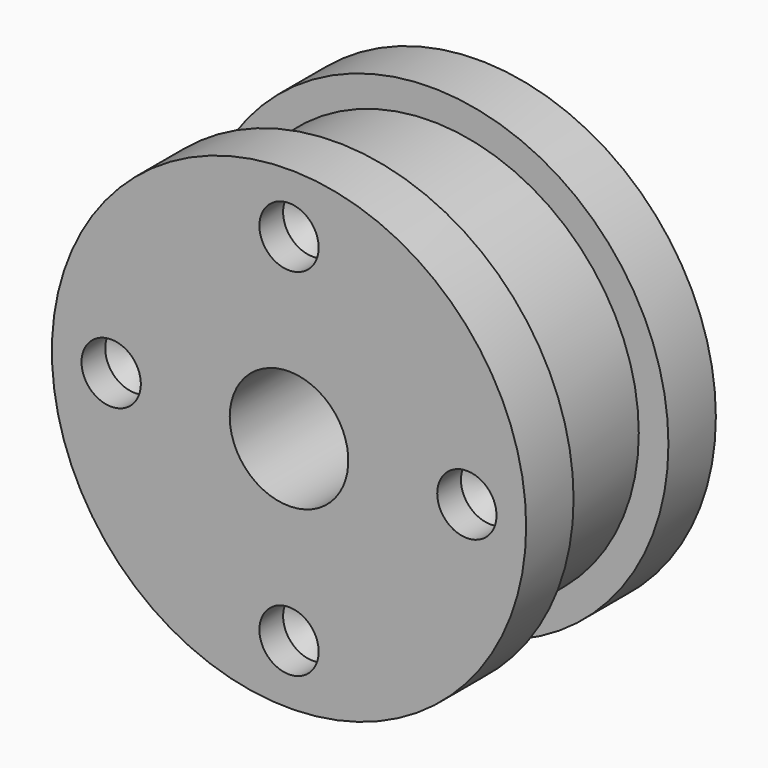
from build123d import *

# Parameters (mm, degrees)
F0_R     = 25.4
F1_DEPTH = 6.35
F2_R     = 22.225
F3_DEPTH = 12.7
F4_R     = 25.4
F5_DEPTH = 6.35
F7_D     = 6.35
F7_DEPTH = 3.175
F7_TIP   = 1.9077324654
F9_D     = 12.7


with BuildPart() as f1:
    # F0 (on Front) → F1 (new body)
    with BuildSketch(Plane.XZ):
        Circle(F0_R)
    extrude(amount=F1_DEPTH)

    # F2 (on face) → F3 (join)
    with BuildSketch(Plane.XZ.offset(6.35)):
        Circle(F2_R)
    extrude(amount=F3_DEPTH)

    # F4 (on face) → F5 (join)
    with BuildSketch(Plane.XZ.offset(19.05)):
        Circle(F4_R)
    extrude(amount=F5_DEPTH)

    # F7
    with Locations(Plane.XZ.offset(25.4)):
        with Locations((-19.05, 0), (0, -19.05), (19.05, 0), (0, 19.05)):
            Hole(F7_D / 2, depth=F7_DEPTH)
            with Locations((0, 0, -(F7_DEPTH + F7_TIP / 2))):  # 118° drill point
                Cone(0, F7_D / 2, F7_TIP, mode=Mode.SUBTRACT)

    # F9 (through all)
    with Locations(Plane.XZ.offset(25.4)):
        with Locations((0, 0)):
            Hole(F9_D / 2)


solid = f1.part
